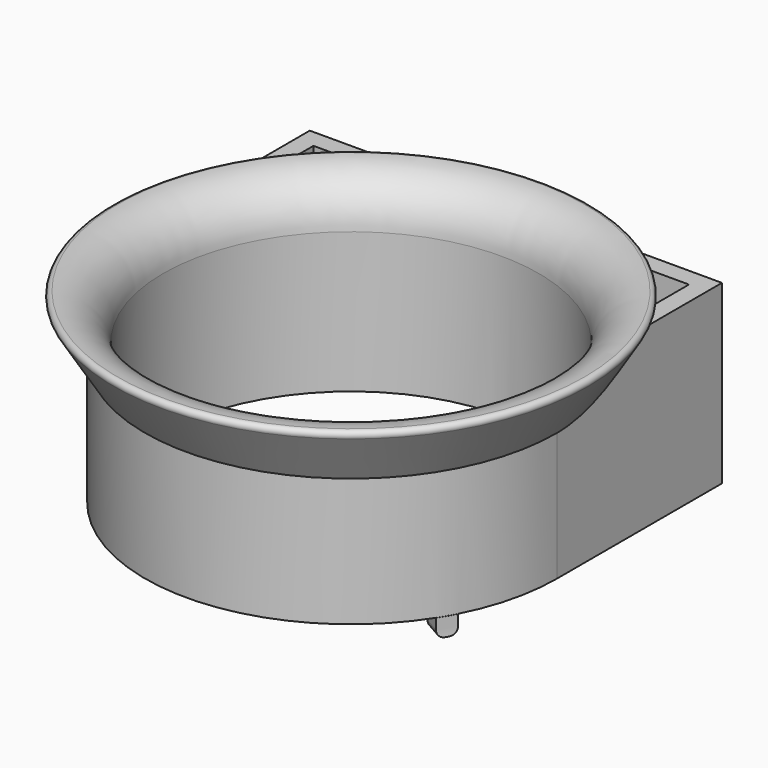
from build123d import *

# Parameters (mm, degrees)
F0_W     = 6.35
F0_H     = 6.35
F3_DEPTH = 61.214
F5_DEPTH = 6.35
F6_R     = 2.54


with BuildPart() as f1:
    # F0 (on Front) → F1 (revolve)
    with BuildSketch(Plane.XZ):
        with BuildLine():
            ThreePointArc((82.316182, 13.458223), (82.347533, 15.063283), (80.9625, 15.875))
            ThreePointArc((80.9625, 15.875), (69.73718, 11.22532), (65.0875, 0))
            Line((65.0875, 0), (71.4375, 8.40026))
            ThreePointArc((71.4375, 8.40026), (75.73724, 11.57526), (80.9625, 12.7))
            ThreePointArc((80.9625, 12.7), (81.738283, 12.902467), (82.316182, 13.458223))
        make_face()
        Polygon((71.4375, 8.40026), (65.0875, 0), (65.0875, -42.39974), (71.4375, -42.39974), (71.4375, -4.29974), align=None)
        with Locations((68.2625, -45.57474)):
            Rectangle(F0_W, F0_H)
        with BuildLine():
            Line((71.4375, -4.29974), (82.316182, 13.458223))
            ThreePointArc((82.316182, 13.458223), (81.738283, 12.902467), (80.9625, 12.7))
            ThreePointArc((80.9625, 12.7), (75.73724, 11.57526), (71.4375, 8.40026))
            Line((71.4375, 8.40026), (71.4375, -4.29974))
        make_face()
    revolve(axis=Axis((0, 0, -2.826434), (0, 0, -1)))

    # F2 (on face) → F3 (join)
    with BuildSketch(Plane(origin=(0, 0, -48.74974), x_dir=(1, 0, 0), z_dir=(0, 0, -1))):
        with BuildLine():
            ThreePointArc((-65.0875, -29.443739), (-69.831958, -15.060347), (-71.4375, 0))
            Line((-71.4375, 0), (-71.4375, -71.4375))
            Line((-71.4375, -71.4375), (0, -71.4375))
            ThreePointArc((0, -71.4375), (-15.060347, -69.831958), (-29.443739, -65.0875))
            Line((-29.443739, -65.0875), (-65.0875, -65.0875))
            Line((-65.0875, -65.0875), (-65.0875, -29.443739))
        make_face()
        with BuildLine():
            Line((71.4375, -71.4375), (71.4375, 0))
            ThreePointArc((71.4375, 0), (69.831958, -15.060347), (65.0875, -29.443739))
            Line((65.0875, -29.443739), (65.0875, -65.0875))
            Line((65.0875, -65.0875), (29.443739, -65.0875))
            ThreePointArc((29.443739, -65.0875), (15.060347, -69.831958), (0, -71.4375))
            Line((0, -71.4375), (71.4375, -71.4375))
        make_face()
    extrude(amount=-F3_DEPTH)

    # F4 (on face) → F5 (join)
    with BuildSketch(Plane(origin=(0, 0, -48.74974), x_dir=(1, 0, 0), z_dir=(0, 0, -1))):
        with BuildLine():
            ThreePointArc((3.175, -65.010015), (0, -65.0875), (-3.175, -65.010015))
            Line((-3.175, -65.010015), (-3.175, -71.4375))
            ThreePointArc((-3.175, -71.4375), (0, -71.508021), (3.175, -71.4375))
            Line((3.175, -71.4375), (3.175, -65.010015))
        make_face()
        with BuildLine():
            ThreePointArc((54.712824, 35.254638), (56.367428, 32.54375), (57.887824, 29.755377))
            Line((57.887824, 29.755377), (63.45419, 32.969119))
            ThreePointArc((63.45419, 32.969119), (61.927763, 35.75401), (60.27919, 38.468381))
            Line((60.27919, 38.468381), (54.712824, 35.254638))
        make_face()
        with BuildLine():
            ThreePointArc((-57.887824, 29.755377), (-56.367428, 32.54375), (-54.712824, 35.254638))
            Line((-54.712824, 35.254638), (-60.27919, 38.468381))
            ThreePointArc((-60.27919, 38.468381), (-61.927763, 35.75401), (-63.45419, 32.969119))
            Line((-63.45419, 32.969119), (-57.887824, 29.755377))
        make_face()
    extrude(amount=F5_DEPTH)

    # F6
    f6_edges = [f1.edges().sort_by_distance(p)[0] for p in [
        (57.496007, -36.861509, -55.09974),
        (60.671007, -31.362248, -55.09974),
        (-57.496007, -36.861509, -55.09974),
        (-60.671007, -31.362248, -55.09974),
        (3.175, 68.223757, -55.09974),
        (-3.175, 68.223757, -55.09974),
    ]]
    fillet(f6_edges, radius=F6_R)


solid = f1.part
